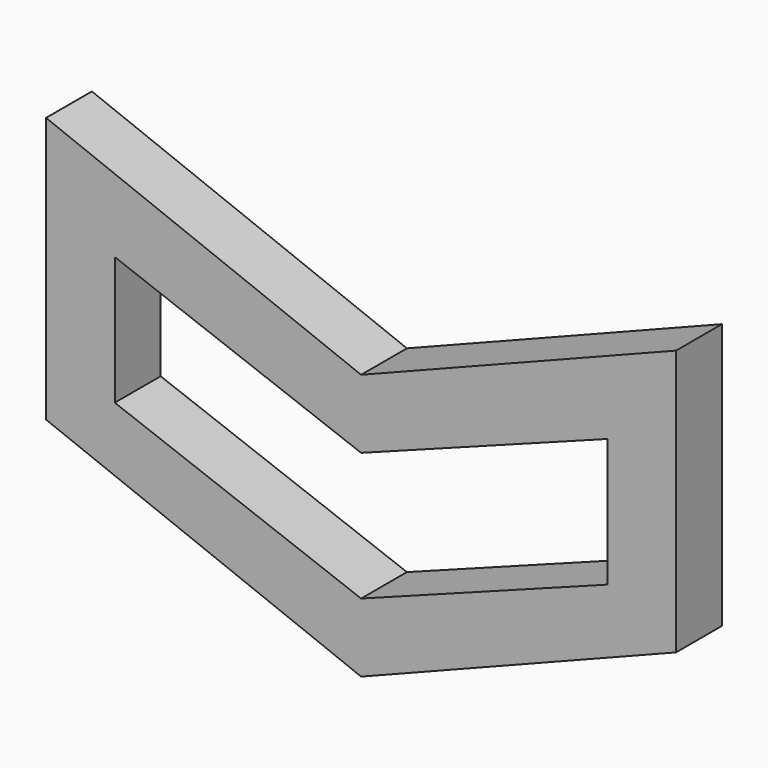
from build123d import *

# Parameters (mm, degrees)
F1_DEPTH = 6.35


with BuildPart() as f1:
    # F0 (on Front) → F1 (new body)
    with BuildSketch(Plane.XZ):
        Polygon((34.925, 18.654233), (0, 4.931788), (0, 0), (0, -2.688212), (27.305, 7.549116), (27.305, -6.668439), (0, -16.905767), (0, -24.525767), (34.925, -10.803323), align=None)
        Polygon((0, 0), (0, 4.931788), (-34.925, 18.654233), (-34.925, -10.803323), (0, -24.525767), (0, -16.905767), (-27.305, -6.668439), (-27.305, 7.549116), (0, -2.688212), align=None)
    extrude(amount=F1_DEPTH)


solid = f1.part
